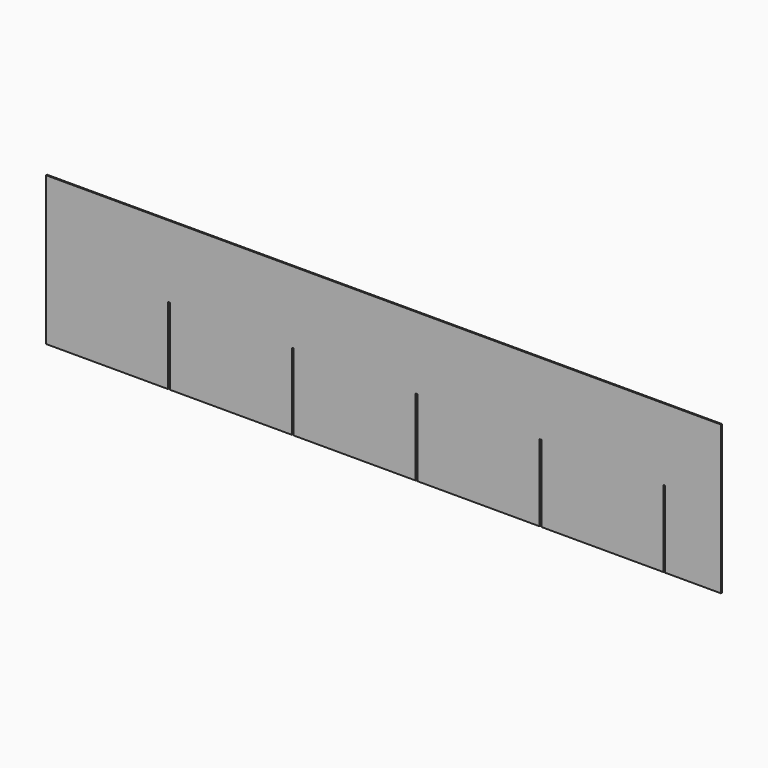
from build123d import *

# Parameters (mm, degrees)
F1_DEPTH = 1


with BuildPart() as f1:
    # F0 (on Front) → F1 (new body)
    with BuildSketch(Plane.XZ):
        Polygon((-67.022592, 110.287041), (-67.022592, -9.712959), (31.477408, -9.712959), (31.477408, 52.287041), (32.977408, 52.287041), (32.977408, -9.712959), (131.477408, -9.712959), (131.477408, 52.287041), (132.977408, 52.287041), (132.977408, -9.712959), (231.477408, -9.712959), (231.477408, 52.287041), (232.977408, 52.287041), (232.977408, -9.712959), (331.477408, -9.712959), (331.477408, 52.287041), (332.977408, 52.287041), (332.977408, -9.712959), (431.477408, -9.712959), (431.477408, 52.287041), (432.977408, 52.287041), (432.977408, -9.712959), (477.977408, -9.712959), (477.977408, 110.287041), align=None)
    extrude(amount=F1_DEPTH)


solid = f1.part
